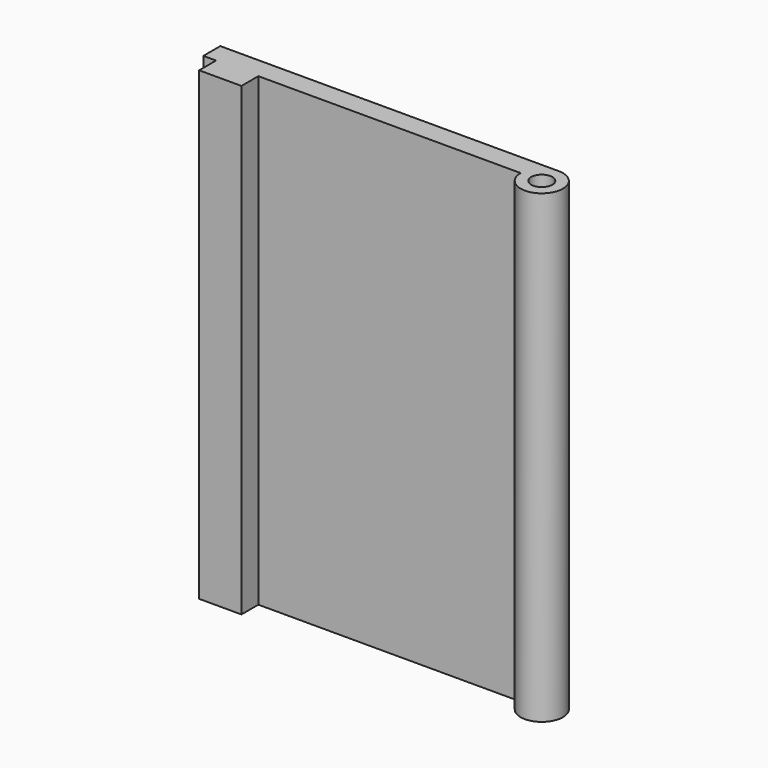
from build123d import *

# Parameters (mm, degrees)
F0_W     = 80
F0_H     = 110
F1_DEPTH = 5
F2_R     = 5
F2_W     = 10
F2_H     = 5
F3_DEPTH = 110
F4_R     = 2.5
F5_DEPTH = 110


with BuildPart() as f1:
    # F0 (on Front) → F1 (new body)
    with BuildSketch(Plane.XZ):
        with Locations((40, 55)):
            Rectangle(F0_W, F0_H)
    extrude(amount=F1_DEPTH)

    # F2 (on face) → F3 (join, through all)
    with BuildSketch(Plane.XY.offset(110)):
        with Locations((80, -5)):
            Circle(F2_R)
        with Locations((8, -7.5)):
            Rectangle(F2_W, F2_H)
    extrude(amount=-F3_DEPTH)

    # F4 (on face) → F5 (cut, through all)
    with BuildSketch(Plane.XY.offset(110)):
        with Locations((80, -5)):
            Circle(F4_R)
    extrude(amount=-F5_DEPTH, mode=Mode.SUBTRACT)


solid = f1.part
